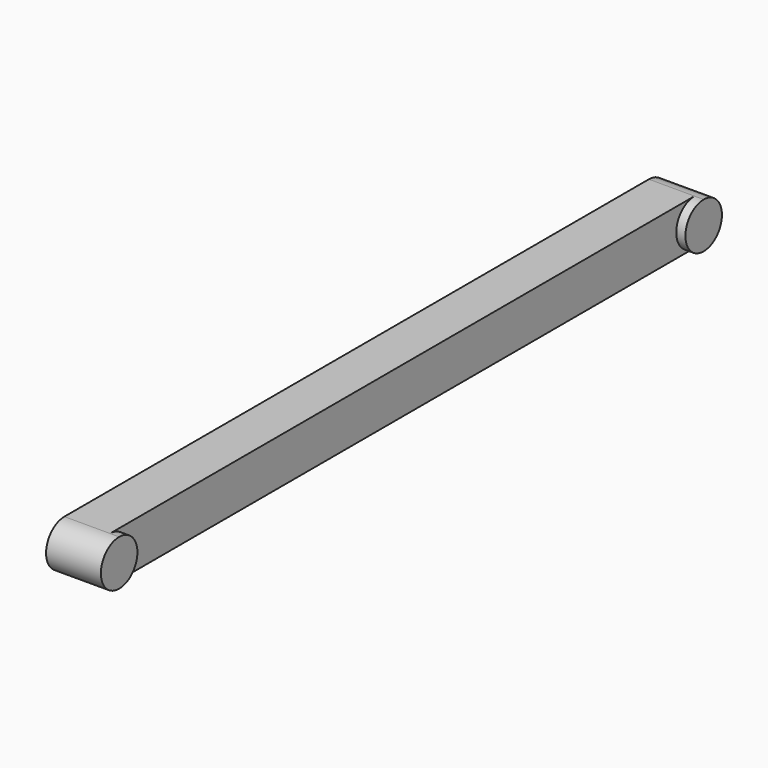
from build123d import *

# Parameters (mm, degrees)
F1_DEPTH = 3.175
F2_DEPTH = 3.81


with BuildPart() as f1:
    # F0 (on Right) → F1 (new body)
    with BuildSketch(Plane.YZ):
        with BuildLine():
            ThreePointArc((25.4, -1.5875), (23.8125, 0), (25.4, 1.5875))
            Line((25.4, 1.5875), (-25.4, 1.5875))
            ThreePointArc((-25.4, 1.5875), (-24.277468, 1.122532), (-23.8125, 0))
            ThreePointArc((-23.8125, 0), (-24.277468, -1.122532), (-25.4, -1.5875))
            Line((-25.4, -1.5875), (25.4, -1.5875))
        make_face()
    extrude(amount=F1_DEPTH)

    # F0 (on Right) → F2 (join)
    with BuildSketch(Plane.YZ):
        with BuildLine():
            ThreePointArc((-23.8125, 0), (-24.277468, 1.122532), (-25.4, 1.5875))
            Line((-25.4, 1.5875), (-25.4, -1.5875))
            ThreePointArc((-25.4, -1.5875), (-24.277468, -1.122532), (-23.8125, 0))
        make_face()
        with BuildLine():
            Line((-25.4, -1.5875), (-25.4, 1.5875))
            ThreePointArc((-25.4, 1.5875), (-26.9875, 0), (-25.4, -1.5875))
        make_face()
        with BuildLine():
            ThreePointArc((26.9875, 0), (26.522532, 1.122532), (25.4, 1.5875))
            Line((25.4, 1.5875), (25.4, -1.5875))
            ThreePointArc((25.4, -1.5875), (26.522532, -1.122532), (26.9875, 0))
        make_face()
        with BuildLine():
            Line((25.4, -1.5875), (25.4, 1.5875))
            ThreePointArc((25.4, 1.5875), (23.8125, 0), (25.4, -1.5875))
        make_face()
    extrude(amount=F2_DEPTH)


solid = f1.part
